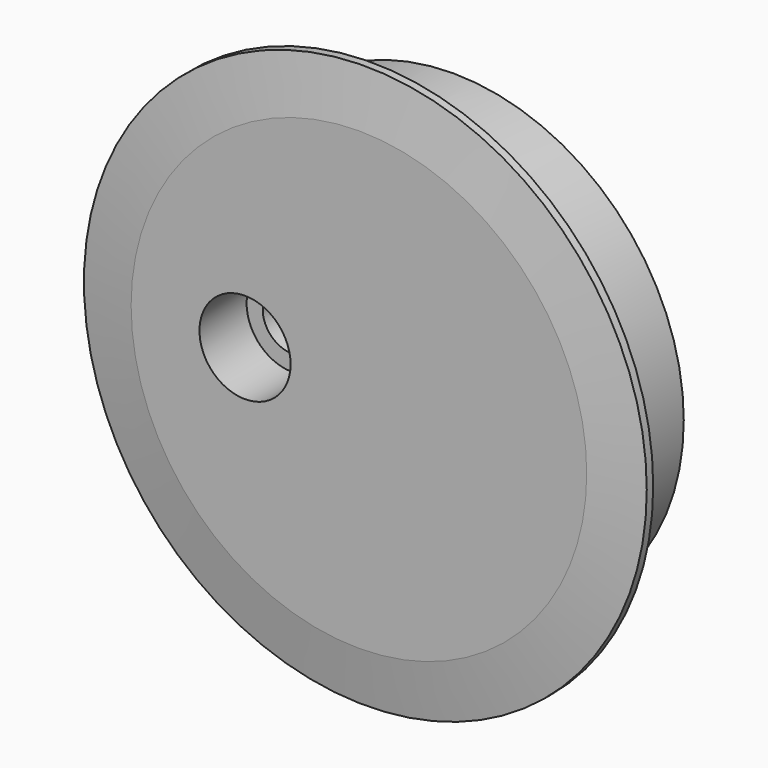
from build123d import *

# Parameters (mm, degrees)
F0_R      = 52.5
F1_DEPTH  = 3
F2_R      = 43
F3_DEPTH  = 22
F4_R      = 8.5
F5_DEPTH  = 11
F6_R      = 5.5
F7_DEPTH  = 11.001
F8_SIZE2  = 1.5
F8_SIZE   = 10
F9_R      = 4
F10_DEPTH = 50


with BuildPart() as f1:
    # F0 (on Front) → F1 (new body)
    with BuildSketch(Plane.XZ):
        Circle(F0_R)
    extrude(amount=F1_DEPTH)

    # F2 (on face) → F3 (join)
    with BuildSketch(Plane.XZ.offset(3)):
        Circle(F2_R)
    extrude(amount=-F3_DEPTH)

    # F4 (on face) → F5 (cut)
    with BuildSketch(Plane.XZ.offset(3)):
        with Locations((-21.25, 0)):
            Circle(F4_R)
    extrude(amount=-F5_DEPTH, mode=Mode.SUBTRACT)

    # F6 (on face) → F7 (cut, through all)
    with BuildSketch(Plane.XZ.offset(-8)):
        with Locations((-21.25, 0)):
            Circle(F6_R)
    extrude(amount=-F7_DEPTH, mode=Mode.SUBTRACT)

    # F8
    f8_edges = [f1.edges().sort_by_distance(p)[0] for p in [
        (-52.5, -3, 0),
    ]]
    f8_side = f1.faces().sort_by_distance((0.572024, -3, 0))[0]
    chamfer(f8_edges, length=F8_SIZE, length2=F8_SIZE2, reference=f8_side)

    # F9 (on Top) → F10 (cut, symmetric)
    with BuildSketch(Plane.XY):
        with Locations((0, 7)):
            Circle(F9_R)
    extrude(amount=F10_DEPTH, both=True, mode=Mode.SUBTRACT)


solid = f1.part
